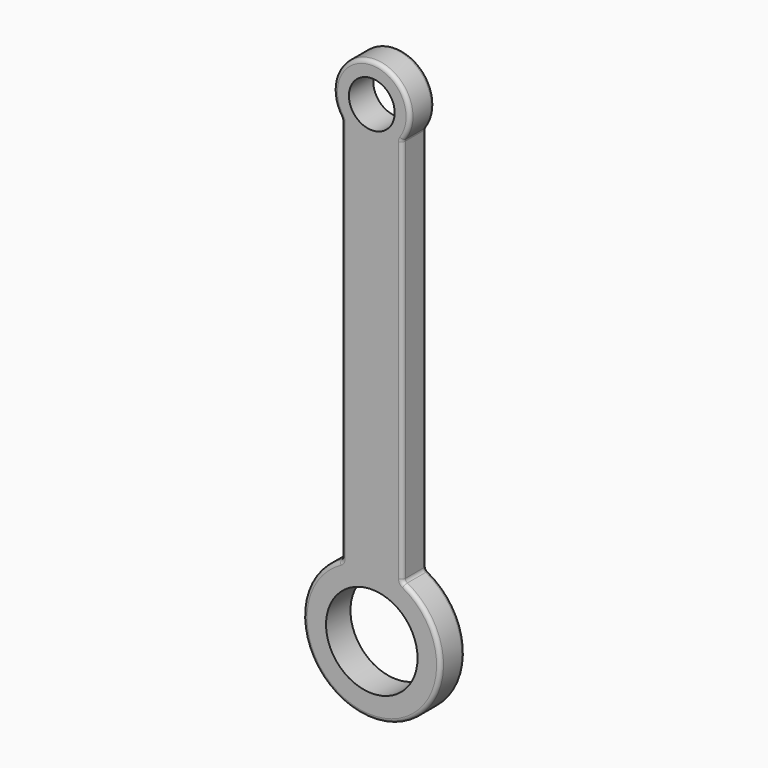
from build123d import *

# Parameters (mm, degrees)
F0_R     = 19.05
F0_R_2   = 9.525
F1_DEPTH = 12.7
F2_R     = 1.6002


with BuildPart() as f1:
    # F0 (on Front) → F1 (new body)
    with BuildSketch(Plane.XZ):
        with BuildLine():
            Line((-12.7, 187.325), (-12.7, 25.597668))
            ThreePointArc((-12.7, 25.597668), (0, -28.575), (12.7, 25.597668))
            Line((12.7, 25.597668), (12.7, 187.325))
            ThreePointArc((12.7, 187.325), (0, 212.725), (-12.7, 187.325))
        make_face()
        Circle(F0_R, mode=Mode.SUBTRACT)
        with Locations((0, 196.85)):
            Circle(F0_R_2, mode=Mode.SUBTRACT)
    extrude(amount=F1_DEPTH)

    # F2
    f2_edges = [f1.edges().sort_by_distance(p)[0] for p in [
        (0, -12.7, 212.725),
        (12.7, -12.7, 106.461334),
        (0, -12.7, -28.575),
        (-12.7, -12.7, 106.461334),
        (12.7, 0, 106.461334),
        (0, 0, 212.725),
        (-12.7, 0, 106.461334),
        (0, 0, -28.575),
        (12.7, -6.35, 25.597668),
        (12.7, -6.35, 187.325),
        (-12.7, -6.35, 187.325),
        (-12.7, -6.35, 25.597668),
    ]]
    fillet(f2_edges, radius=F2_R)


solid = f1.part
